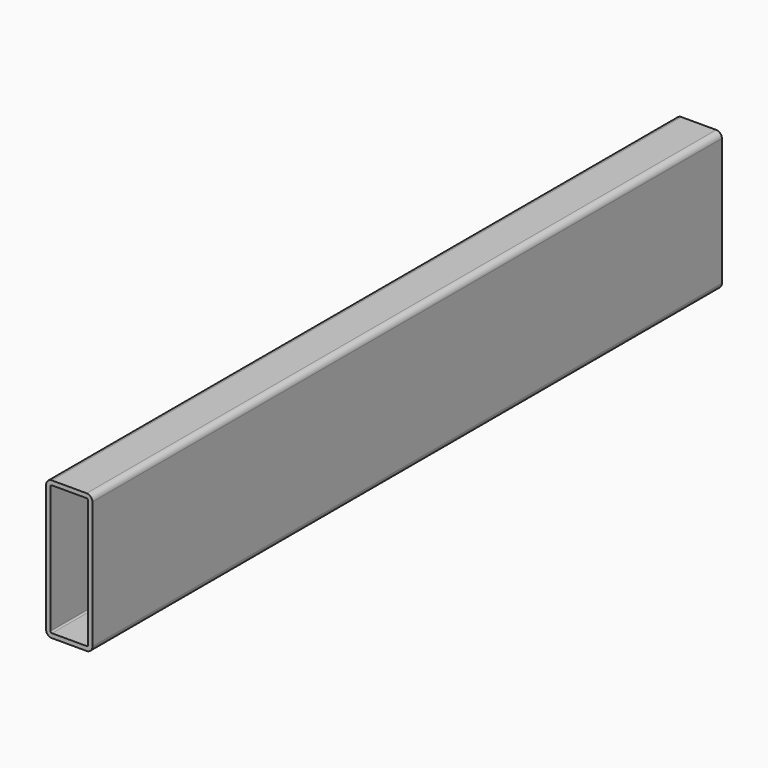
from build123d import *

# Parameters (mm, degrees)
F1_DEPTH = 863.6


with BuildPart() as f1:
    # F0 (on Front) → F1 (new body)
    with BuildSketch(Plane.XZ):
        with BuildLine():
            ThreePointArc((25.4, 69.85), (23.540128, 74.340128), (19.05, 76.2))
            Line((19.05, 76.2), (-19.05, 76.2))
            ThreePointArc((-19.05, 76.2), (-23.540128, 74.340128), (-25.4, 69.85))
            Line((-25.4, 69.85), (-25.4, -69.85))
            ThreePointArc((-25.4, -69.85), (-23.540128, -74.340128), (-19.05, -76.2))
            Line((-19.05, -76.2), (19.05, -76.2))
            ThreePointArc((19.05, -76.2), (23.540128, -74.340128), (25.4, -69.85))
            Line((25.4, -69.85), (25.4, 69.85))
        make_face()
        with BuildLine():
            Line((-20.6375, -69.85), (-20.6375, 69.85))
            ThreePointArc((-20.6375, 69.85), (-20.172532, 70.972532), (-19.05, 71.4375))
            Line((-19.05, 71.4375), (19.05, 71.4375))
            ThreePointArc((19.05, 71.4375), (20.172532, 70.972532), (20.6375, 69.85))
            Line((20.6375, 69.85), (20.6375, -69.85))
            ThreePointArc((20.6375, -69.85), (20.172532, -70.972532), (19.05, -71.4375))
            Line((19.05, -71.4375), (-19.05, -71.4375))
            ThreePointArc((-19.05, -71.4375), (-20.172532, -70.972532), (-20.6375, -69.85))
        make_face(mode=Mode.SUBTRACT)
    extrude(amount=F1_DEPTH)


solid = f1.part
